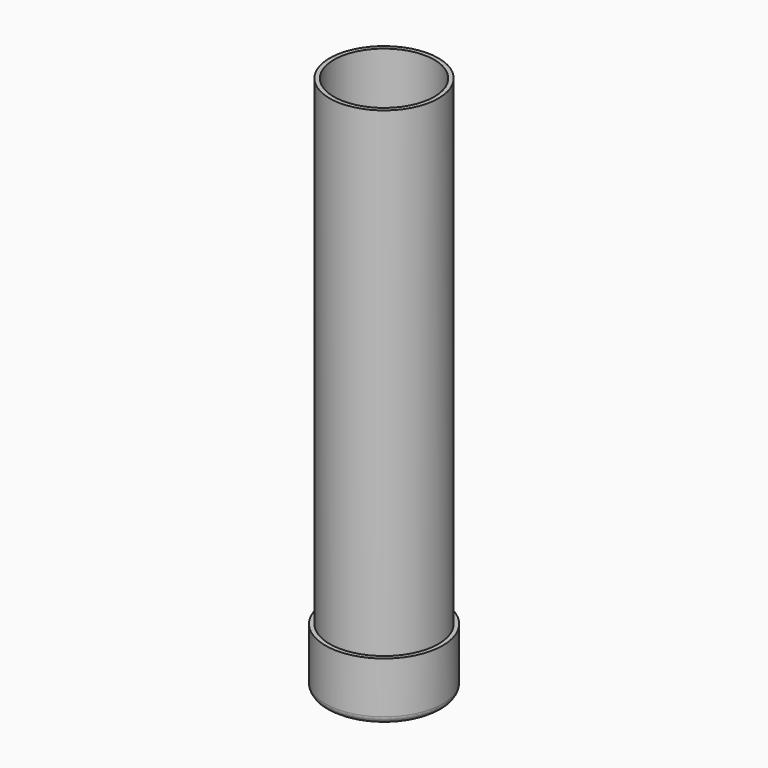
from build123d import *

# Parameters (mm, degrees)
F0_R     = 55
F0_R_2   = 51
F0_R_3   = 47
F1_DEPTH = 5
F2_DEPTH = 500
F3_DEPTH = 50
F4_R     = 7


with BuildPart() as f1:
    # F0 (on Top) → F1 (new body)
    with BuildSketch(Plane.XY):
        Circle(F0_R)
        Circle(F0_R_2, mode=Mode.SUBTRACT)
        Circle(F0_R_2)
        Circle(F0_R_3, mode=Mode.SUBTRACT)
        Circle(F0_R_3)
    extrude(amount=-F1_DEPTH)

    # F0 (on Top) → F2 (join)
    with BuildSketch(Plane.XY):
        Circle(F0_R_2)
        Circle(F0_R_3, mode=Mode.SUBTRACT)
    extrude(amount=F2_DEPTH)

    # F0 (on Top) → F3 (join)
    with BuildSketch(Plane.XY):
        Circle(F0_R)
        Circle(F0_R_2, mode=Mode.SUBTRACT)
    extrude(amount=F3_DEPTH)

    # F4
    f4_edges = [f1.edges().sort_by_distance(p)[0] for p in [
        (-55, 0, -5),
    ]]
    fillet(f4_edges, radius=F4_R)


solid = f1.part
